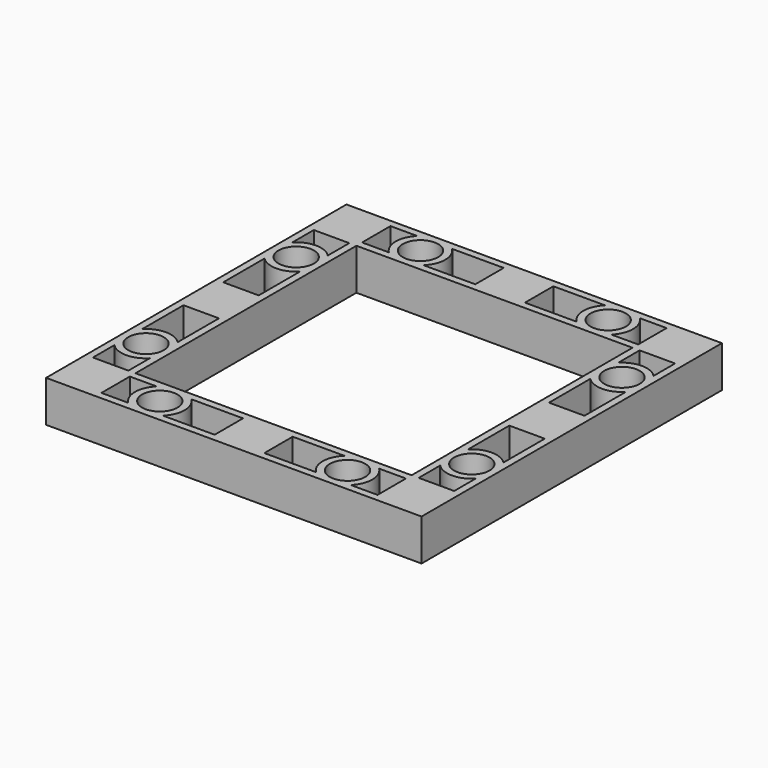
from build123d import *

# Parameters (mm, degrees)
F0_R     = 3
F1_DEPTH = 1.4
F2_DEPTH = 7


with BuildPart() as f1:
    # F0 (on Top) → F1 (new body)
    with BuildSketch(Plane.XY):
        Polygon((31.75, 31.75), (0, 31.75), (-31.75, 31.75), (-31.75, 0), (-31.75, -31.75), (0, -31.75), (31.75, -31.75), (31.75, 0), align=None)
        with BuildLine():
            ThreePointArc((-18.814388, -24.55), (-20.075, -27.55), (-18.814388, -30.55))
            Line((-18.814388, -30.55), (-23.35, -30.55))
            Line((-23.35, -30.55), (-23.35, -24.55))
            Line((-23.35, -24.55), (-18.814388, -24.55))
        make_face(mode=Mode.SUBTRACT)
        with BuildLine():
            Line((-24.55, -18.814388), (-24.55, -23.35))
            Line((-24.55, -23.35), (-30.55, -23.35))
            Line((-30.55, -23.35), (-30.55, -18.814388))
            ThreePointArc((-30.55, -18.814388), (-27.55, -20.075), (-24.55, -18.814388))
        make_face(mode=Mode.SUBTRACT)
        with Locations((-15.875, -27.55)):
            Circle(F0_R, mode=Mode.SUBTRACT)
        with Locations((-27.55, -15.875)):
            Circle(F0_R, mode=Mode.SUBTRACT)
        with BuildLine():
            Line((4.2, -30.55), (0, -30.55))
            Line((0, -30.55), (-4.2, -30.55))
            Line((-4.2, -30.55), (-12.935612, -30.55))
            ThreePointArc((-12.935612, -30.55), (-11.675, -27.55), (-12.935612, -24.55))
            Line((-12.935612, -24.55), (-4.2, -24.55))
            Line((-4.2, -24.55), (0, -24.55))
            Line((0, -24.55), (4.2, -24.55))
            Line((4.2, -24.55), (12.935612, -24.55))
            ThreePointArc((12.935612, -24.55), (11.675, -27.55), (12.935612, -30.55))
            Line((12.935612, -30.55), (4.2, -30.55))
        make_face(mode=Mode.SUBTRACT)
        with Locations((15.875, -27.55)):
            Circle(F0_R, mode=Mode.SUBTRACT)
        with BuildLine():
            Line((23.35, -30.55), (18.814388, -30.55))
            ThreePointArc((18.814388, -30.55), (20.075, -27.55), (18.814388, -24.55))
            Line((18.814388, -24.55), (23.35, -24.55))
            Line((23.35, -24.55), (23.35, -30.55))
        make_face(mode=Mode.SUBTRACT)
        with BuildLine():
            Line((30.55, -23.35), (24.55, -23.35))
            Line((24.55, -23.35), (24.55, -18.814388))
            ThreePointArc((24.55, -18.814388), (27.55, -20.075), (30.55, -18.814388))
            Line((30.55, -18.814388), (30.55, -23.35))
        make_face(mode=Mode.SUBTRACT)
        with Locations((27.55, -15.875)):
            Circle(F0_R, mode=Mode.SUBTRACT)
        with BuildLine():
            Line((-30.55, 0), (-30.55, 4.2))
            Line((-30.55, 4.2), (-30.55, 12.935612))
            ThreePointArc((-30.55, 12.935612), (-27.55, 11.675), (-24.55, 12.935612))
            Line((-24.55, 12.935612), (-24.55, 4.2))
            Line((-24.55, 4.2), (-24.55, 0))
            Line((-24.55, 0), (-24.55, -4.2))
            Line((-24.55, -4.2), (-24.55, -12.935612))
            ThreePointArc((-24.55, -12.935612), (-27.55, -11.675), (-30.55, -12.935612))
            Line((-30.55, -12.935612), (-30.55, -4.2))
            Line((-30.55, -4.2), (-30.55, 0))
        make_face(mode=Mode.SUBTRACT)
        with Locations((-27.55, 15.875)):
            Circle(F0_R, mode=Mode.SUBTRACT)
        with BuildLine():
            Line((-30.55, 18.814388), (-30.55, 23.35))
            Line((-30.55, 23.35), (-24.55, 23.35))
            Line((-24.55, 23.35), (-24.55, 18.814388))
            ThreePointArc((-24.55, 18.814388), (-27.55, 20.075), (-30.55, 18.814388))
        make_face(mode=Mode.SUBTRACT)
        with BuildLine():
            Line((-18.814388, 24.55), (-23.35, 24.55))
            Line((-23.35, 24.55), (-23.35, 30.55))
            Line((-23.35, 30.55), (-18.814388, 30.55))
            ThreePointArc((-18.814388, 30.55), (-20.075, 27.55), (-18.814388, 24.55))
        make_face(mode=Mode.SUBTRACT)
        with Locations((-15.875, 27.55)):
            Circle(F0_R, mode=Mode.SUBTRACT)
        Polygon((-23.35, 0), (-23.35, 23.35), (0, 23.35), (23.35, 23.35), (23.35, 0), (23.35, -23.35), (0, -23.35), (-23.35, -23.35), align=None, mode=Mode.SUBTRACT)
        with BuildLine():
            Line((24.55, 4.2), (24.55, 12.935612))
            ThreePointArc((24.55, 12.935612), (27.55, 11.675), (30.55, 12.935612))
            Line((30.55, 12.935612), (30.55, 4.2))
            Line((30.55, 4.2), (30.55, 0))
            Line((30.55, 0), (30.55, -4.2))
            Line((30.55, -4.2), (30.55, -12.935612))
            ThreePointArc((30.55, -12.935612), (27.55, -11.675), (24.55, -12.935612))
            Line((24.55, -12.935612), (24.55, -4.2))
            Line((24.55, -4.2), (24.55, 0))
            Line((24.55, 0), (24.55, 4.2))
        make_face(mode=Mode.SUBTRACT)
        with BuildLine():
            Line((-4.2, 30.55), (0, 30.55))
            Line((0, 30.55), (4.2, 30.55))
            Line((4.2, 30.55), (12.935612, 30.55))
            ThreePointArc((12.935612, 30.55), (11.675, 27.55), (12.935612, 24.55))
            Line((12.935612, 24.55), (4.2, 24.55))
            Line((4.2, 24.55), (0, 24.55))
            Line((0, 24.55), (-4.2, 24.55))
            Line((-4.2, 24.55), (-12.935612, 24.55))
            ThreePointArc((-12.935612, 24.55), (-11.675, 27.55), (-12.935612, 30.55))
            Line((-12.935612, 30.55), (-4.2, 30.55))
        make_face(mode=Mode.SUBTRACT)
        with Locations((27.55, 15.875)):
            Circle(F0_R, mode=Mode.SUBTRACT)
        with BuildLine():
            ThreePointArc((30.55, 18.814388), (27.55, 20.075), (24.55, 18.814388))
            Line((24.55, 18.814388), (24.55, 23.35))
            Line((24.55, 23.35), (30.55, 23.35))
            Line((30.55, 23.35), (30.55, 18.814388))
        make_face(mode=Mode.SUBTRACT)
        with Locations((15.875, 27.55)):
            Circle(F0_R, mode=Mode.SUBTRACT)
        with BuildLine():
            ThreePointArc((18.814388, 24.55), (20.075, 27.55), (18.814388, 30.55))
            Line((18.814388, 30.55), (23.35, 30.55))
            Line((23.35, 30.55), (23.35, 24.55))
            Line((23.35, 24.55), (18.814388, 24.55))
        make_face(mode=Mode.SUBTRACT)
        with BuildLine():
            Line((-24.55, 23.35), (-30.55, 23.35))
            Line((-30.55, 23.35), (-30.55, 18.814388))
            ThreePointArc((-30.55, 18.814388), (-27.55, 20.075), (-24.55, 18.814388))
            Line((-24.55, 18.814388), (-24.55, 23.35))
        make_face()
        with Locations((-27.55, 15.875)):
            Circle(F0_R)
        with Locations((-15.875, 27.55)):
            Circle(F0_R)
        with BuildLine():
            Line((-23.35, 30.55), (-23.35, 24.55))
            Line((-23.35, 24.55), (-18.814388, 24.55))
            ThreePointArc((-18.814388, 24.55), (-20.075, 27.55), (-18.814388, 30.55))
            Line((-18.814388, 30.55), (-23.35, 30.55))
        make_face()
        Polygon((4.2, 30.55), (0, 30.55), (-4.2, 30.55), (-4.2, 24.55), (0, 24.55), (4.2, 24.55), align=None)
        with BuildLine():
            Line((-4.2, 24.55), (-4.2, 30.55))
            Line((-4.2, 30.55), (-12.935612, 30.55))
            ThreePointArc((-12.935612, 30.55), (-11.675, 27.55), (-12.935612, 24.55))
            Line((-12.935612, 24.55), (-4.2, 24.55))
        make_face()
        with BuildLine():
            Line((12.935612, 30.55), (4.2, 30.55))
            Line((4.2, 30.55), (4.2, 24.55))
            Line((4.2, 24.55), (12.935612, 24.55))
            ThreePointArc((12.935612, 24.55), (11.675, 27.55), (12.935612, 30.55))
        make_face()
        with Locations((15.875, 27.55)):
            Circle(F0_R)
        with BuildLine():
            Line((23.35, 30.55), (18.814388, 30.55))
            ThreePointArc((18.814388, 30.55), (20.075, 27.55), (18.814388, 24.55))
            Line((18.814388, 24.55), (23.35, 24.55))
            Line((23.35, 24.55), (23.35, 30.55))
        make_face()
        with BuildLine():
            Line((24.55, 23.35), (24.55, 18.814388))
            ThreePointArc((24.55, 18.814388), (27.55, 20.075), (30.55, 18.814388))
            Line((30.55, 18.814388), (30.55, 23.35))
            Line((30.55, 23.35), (24.55, 23.35))
        make_face()
        with Locations((27.55, 15.875)):
            Circle(F0_R)
        with BuildLine():
            ThreePointArc((30.55, 12.935612), (27.55, 11.675), (24.55, 12.935612))
            Line((24.55, 12.935612), (24.55, 4.2))
            Line((24.55, 4.2), (30.55, 4.2))
            Line((30.55, 4.2), (30.55, 12.935612))
        make_face()
        Polygon((30.55, 4.2), (24.55, 4.2), (24.55, 0), (24.55, -4.2), (30.55, -4.2), (30.55, 0), align=None)
        with BuildLine():
            Line((30.55, -4.2), (24.55, -4.2))
            Line((24.55, -4.2), (24.55, -12.935612))
            ThreePointArc((24.55, -12.935612), (27.55, -11.675), (30.55, -12.935612))
            Line((30.55, -12.935612), (30.55, -4.2))
        make_face()
        with Locations((27.55, -15.875)):
            Circle(F0_R)
        with BuildLine():
            Line((24.55, -18.814388), (24.55, -23.35))
            Line((24.55, -23.35), (30.55, -23.35))
            Line((30.55, -23.35), (30.55, -18.814388))
            ThreePointArc((30.55, -18.814388), (27.55, -20.075), (24.55, -18.814388))
        make_face()
        with BuildLine():
            ThreePointArc((18.814388, -24.55), (20.075, -27.55), (18.814388, -30.55))
            Line((18.814388, -30.55), (23.35, -30.55))
            Line((23.35, -30.55), (23.35, -24.55))
            Line((23.35, -24.55), (18.814388, -24.55))
        make_face()
        with Locations((15.875, -27.55)):
            Circle(F0_R)
        with BuildLine():
            Line((4.2, -24.55), (4.2, -30.55))
            Line((4.2, -30.55), (12.935612, -30.55))
            ThreePointArc((12.935612, -30.55), (11.675, -27.55), (12.935612, -24.55))
            Line((12.935612, -24.55), (4.2, -24.55))
        make_face()
        Polygon((-4.2, -30.55), (0, -30.55), (4.2, -30.55), (4.2, -24.55), (0, -24.55), (-4.2, -24.55), align=None)
        with BuildLine():
            Line((-12.935612, -30.55), (-4.2, -30.55))
            Line((-4.2, -30.55), (-4.2, -24.55))
            Line((-4.2, -24.55), (-12.935612, -24.55))
            ThreePointArc((-12.935612, -24.55), (-11.675, -27.55), (-12.935612, -30.55))
        make_face()
        with BuildLine():
            Line((-23.35, -30.55), (-18.814388, -30.55))
            ThreePointArc((-18.814388, -30.55), (-20.075, -27.55), (-18.814388, -24.55))
            Line((-18.814388, -24.55), (-23.35, -24.55))
            Line((-23.35, -24.55), (-23.35, -30.55))
        make_face()
        with Locations((-15.875, -27.55)):
            Circle(F0_R)
        with BuildLine():
            Line((-30.55, -23.35), (-24.55, -23.35))
            Line((-24.55, -23.35), (-24.55, -18.814388))
            ThreePointArc((-24.55, -18.814388), (-27.55, -20.075), (-30.55, -18.814388))
            Line((-30.55, -18.814388), (-30.55, -23.35))
        make_face()
        with Locations((-27.55, -15.875)):
            Circle(F0_R)
        with BuildLine():
            Line((-24.55, -4.2), (-30.55, -4.2))
            Line((-30.55, -4.2), (-30.55, -12.935612))
            ThreePointArc((-30.55, -12.935612), (-27.55, -11.675), (-24.55, -12.935612))
            Line((-24.55, -12.935612), (-24.55, -4.2))
        make_face()
        Polygon((-24.55, 4.2), (-30.55, 4.2), (-30.55, 0), (-30.55, -4.2), (-24.55, -4.2), (-24.55, 0), align=None)
        with BuildLine():
            Line((-30.55, 12.935612), (-30.55, 4.2))
            Line((-30.55, 4.2), (-24.55, 4.2))
            Line((-24.55, 4.2), (-24.55, 12.935612))
            ThreePointArc((-24.55, 12.935612), (-27.55, 11.675), (-30.55, 12.935612))
        make_face()
    extrude(amount=F1_DEPTH)

    # F0 (on Top) → F2 (join)
    with BuildSketch(Plane.XY):
        Polygon((31.75, 31.75), (0, 31.75), (-31.75, 31.75), (-31.75, 0), (-31.75, -31.75), (0, -31.75), (31.75, -31.75), (31.75, 0), align=None)
        with BuildLine():
            ThreePointArc((-18.814388, -24.55), (-20.075, -27.55), (-18.814388, -30.55))
            Line((-18.814388, -30.55), (-23.35, -30.55))
            Line((-23.35, -30.55), (-23.35, -24.55))
            Line((-23.35, -24.55), (-18.814388, -24.55))
        make_face(mode=Mode.SUBTRACT)
        with BuildLine():
            Line((-24.55, -18.814388), (-24.55, -23.35))
            Line((-24.55, -23.35), (-30.55, -23.35))
            Line((-30.55, -23.35), (-30.55, -18.814388))
            ThreePointArc((-30.55, -18.814388), (-27.55, -20.075), (-24.55, -18.814388))
        make_face(mode=Mode.SUBTRACT)
        with Locations((-15.875, -27.55)):
            Circle(F0_R, mode=Mode.SUBTRACT)
        with Locations((-27.55, -15.875)):
            Circle(F0_R, mode=Mode.SUBTRACT)
        with BuildLine():
            Line((4.2, -30.55), (0, -30.55))
            Line((0, -30.55), (-4.2, -30.55))
            Line((-4.2, -30.55), (-12.935612, -30.55))
            ThreePointArc((-12.935612, -30.55), (-11.675, -27.55), (-12.935612, -24.55))
            Line((-12.935612, -24.55), (-4.2, -24.55))
            Line((-4.2, -24.55), (0, -24.55))
            Line((0, -24.55), (4.2, -24.55))
            Line((4.2, -24.55), (12.935612, -24.55))
            ThreePointArc((12.935612, -24.55), (11.675, -27.55), (12.935612, -30.55))
            Line((12.935612, -30.55), (4.2, -30.55))
        make_face(mode=Mode.SUBTRACT)
        with Locations((15.875, -27.55)):
            Circle(F0_R, mode=Mode.SUBTRACT)
        with BuildLine():
            Line((23.35, -30.55), (18.814388, -30.55))
            ThreePointArc((18.814388, -30.55), (20.075, -27.55), (18.814388, -24.55))
            Line((18.814388, -24.55), (23.35, -24.55))
            Line((23.35, -24.55), (23.35, -30.55))
        make_face(mode=Mode.SUBTRACT)
        with BuildLine():
            Line((30.55, -23.35), (24.55, -23.35))
            Line((24.55, -23.35), (24.55, -18.814388))
            ThreePointArc((24.55, -18.814388), (27.55, -20.075), (30.55, -18.814388))
            Line((30.55, -18.814388), (30.55, -23.35))
        make_face(mode=Mode.SUBTRACT)
        with Locations((27.55, -15.875)):
            Circle(F0_R, mode=Mode.SUBTRACT)
        with BuildLine():
            Line((-30.55, 0), (-30.55, 4.2))
            Line((-30.55, 4.2), (-30.55, 12.935612))
            ThreePointArc((-30.55, 12.935612), (-27.55, 11.675), (-24.55, 12.935612))
            Line((-24.55, 12.935612), (-24.55, 4.2))
            Line((-24.55, 4.2), (-24.55, 0))
            Line((-24.55, 0), (-24.55, -4.2))
            Line((-24.55, -4.2), (-24.55, -12.935612))
            ThreePointArc((-24.55, -12.935612), (-27.55, -11.675), (-30.55, -12.935612))
            Line((-30.55, -12.935612), (-30.55, -4.2))
            Line((-30.55, -4.2), (-30.55, 0))
        make_face(mode=Mode.SUBTRACT)
        with Locations((-27.55, 15.875)):
            Circle(F0_R, mode=Mode.SUBTRACT)
        with BuildLine():
            Line((-30.55, 18.814388), (-30.55, 23.35))
            Line((-30.55, 23.35), (-24.55, 23.35))
            Line((-24.55, 23.35), (-24.55, 18.814388))
            ThreePointArc((-24.55, 18.814388), (-27.55, 20.075), (-30.55, 18.814388))
        make_face(mode=Mode.SUBTRACT)
        with BuildLine():
            Line((-18.814388, 24.55), (-23.35, 24.55))
            Line((-23.35, 24.55), (-23.35, 30.55))
            Line((-23.35, 30.55), (-18.814388, 30.55))
            ThreePointArc((-18.814388, 30.55), (-20.075, 27.55), (-18.814388, 24.55))
        make_face(mode=Mode.SUBTRACT)
        with Locations((-15.875, 27.55)):
            Circle(F0_R, mode=Mode.SUBTRACT)
        Polygon((-23.35, 0), (-23.35, 23.35), (0, 23.35), (23.35, 23.35), (23.35, 0), (23.35, -23.35), (0, -23.35), (-23.35, -23.35), align=None, mode=Mode.SUBTRACT)
        with BuildLine():
            Line((24.55, 4.2), (24.55, 12.935612))
            ThreePointArc((24.55, 12.935612), (27.55, 11.675), (30.55, 12.935612))
            Line((30.55, 12.935612), (30.55, 4.2))
            Line((30.55, 4.2), (30.55, 0))
            Line((30.55, 0), (30.55, -4.2))
            Line((30.55, -4.2), (30.55, -12.935612))
            ThreePointArc((30.55, -12.935612), (27.55, -11.675), (24.55, -12.935612))
            Line((24.55, -12.935612), (24.55, -4.2))
            Line((24.55, -4.2), (24.55, 0))
            Line((24.55, 0), (24.55, 4.2))
        make_face(mode=Mode.SUBTRACT)
        with BuildLine():
            Line((-4.2, 30.55), (0, 30.55))
            Line((0, 30.55), (4.2, 30.55))
            Line((4.2, 30.55), (12.935612, 30.55))
            ThreePointArc((12.935612, 30.55), (11.675, 27.55), (12.935612, 24.55))
            Line((12.935612, 24.55), (4.2, 24.55))
            Line((4.2, 24.55), (0, 24.55))
            Line((0, 24.55), (-4.2, 24.55))
            Line((-4.2, 24.55), (-12.935612, 24.55))
            ThreePointArc((-12.935612, 24.55), (-11.675, 27.55), (-12.935612, 30.55))
            Line((-12.935612, 30.55), (-4.2, 30.55))
        make_face(mode=Mode.SUBTRACT)
        with Locations((27.55, 15.875)):
            Circle(F0_R, mode=Mode.SUBTRACT)
        with BuildLine():
            ThreePointArc((30.55, 18.814388), (27.55, 20.075), (24.55, 18.814388))
            Line((24.55, 18.814388), (24.55, 23.35))
            Line((24.55, 23.35), (30.55, 23.35))
            Line((30.55, 23.35), (30.55, 18.814388))
        make_face(mode=Mode.SUBTRACT)
        with Locations((15.875, 27.55)):
            Circle(F0_R, mode=Mode.SUBTRACT)
        with BuildLine():
            ThreePointArc((18.814388, 24.55), (20.075, 27.55), (18.814388, 30.55))
            Line((18.814388, 30.55), (23.35, 30.55))
            Line((23.35, 30.55), (23.35, 24.55))
            Line((23.35, 24.55), (18.814388, 24.55))
        make_face(mode=Mode.SUBTRACT)
        Polygon((-4.2, -30.55), (0, -30.55), (4.2, -30.55), (4.2, -24.55), (0, -24.55), (-4.2, -24.55), align=None)
        Polygon((30.55, 4.2), (24.55, 4.2), (24.55, 0), (24.55, -4.2), (30.55, -4.2), (30.55, 0), align=None)
        Polygon((4.2, 30.55), (0, 30.55), (-4.2, 30.55), (-4.2, 24.55), (0, 24.55), (4.2, 24.55), align=None)
        Polygon((-24.55, 4.2), (-30.55, 4.2), (-30.55, 0), (-30.55, -4.2), (-24.55, -4.2), (-24.55, 0), align=None)
    extrude(amount=F2_DEPTH)


solid = f1.part
